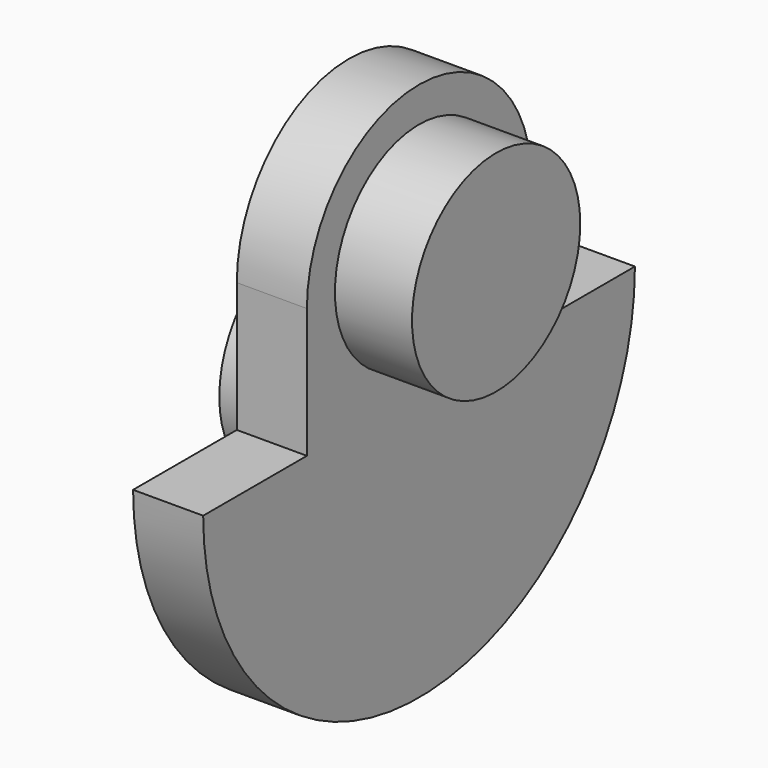
from build123d import *

# Parameters (mm, degrees)
F1_DEPTH  = 2.54
F2_R      = 3.81
F3_DEPTH  = 2.794
F4_R      = 3.81
F5_DEPTH  = 1.5621
F5_FACE_R = 3.81
F6_DEPTH  = 0.0889


with BuildPart() as f1:
    # F0 (on Right) → F1 (new body)
    with BuildSketch(Plane.YZ):
        with BuildLine():
            Line((5.08, 0), (5.08, 4.699))
            ThreePointArc((5.08, 4.699), (0, 9.779), (-5.08, 4.699))
            Line((-5.08, 4.699), (-5.08, 0))
            Line((-5.08, 0), (-9.779, 0))
            ThreePointArc((-9.779, 0), (0, -9.779), (9.779, 0))
            Line((9.779, 0), (5.08, 0))
        make_face()
    extrude(amount=F1_DEPTH)

    # F2 (on face) → F3 (join)
    with BuildSketch(Plane.YZ.offset(2.54)):
        with Locations((0, 4.699)):
            Circle(F2_R)
    extrude(amount=F3_DEPTH)

    # F4 (on face) → F5 (join)
    with BuildSketch(Plane(origin=(0, 0, 0), x_dir=(0, -1, 0), z_dir=(-1, 0, 0))):
        Circle(F4_R)
    extrude(amount=F5_DEPTH)

    # F5_face (on face) → F6 (join)
    with BuildSketch(Plane(origin=(-1.5621, 0, 0), x_dir=(0, -1, 0), z_dir=(-1, 0, 0))):
        Circle(F5_FACE_R)
    extrude(amount=F6_DEPTH)


solid = f1.part
